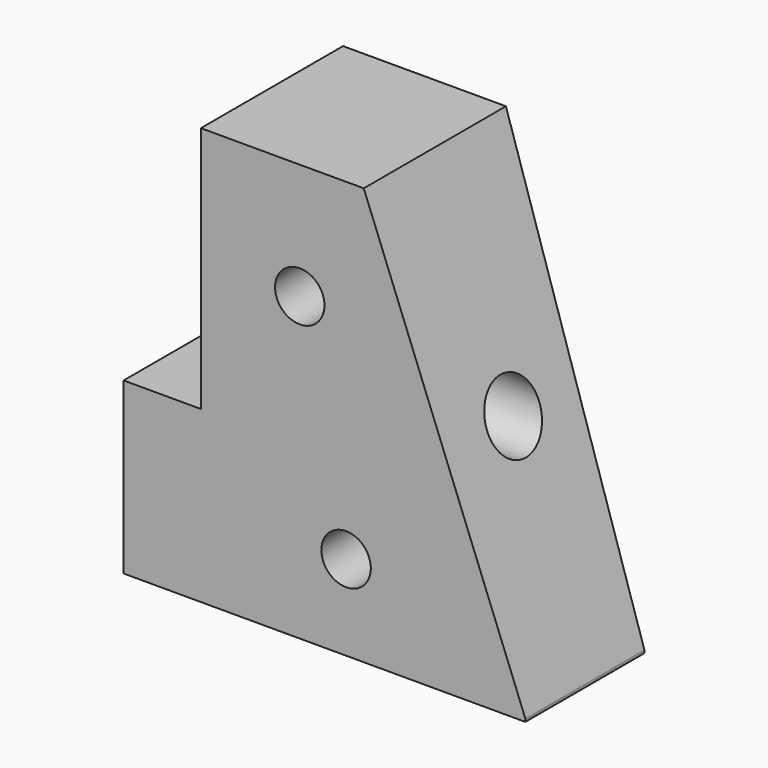
from build123d import *

# Parameters (mm, degrees)
CYLINDER181_R     = 2.1
CYLINDER181_DEPTH = 19
CYLINDER127_R     = 1.6
CYLINDER127_DEPTH = 40
CYLINDER124_R     = 1.6
CYLINDER124_DEPTH = 40
EXTRUDE067_DEPTH  = 5
EXTRUDE050_DEPTH  = 15
EXTRUDE049_DEPTH  = 21


with BuildPart() as cylinder181:
    # Cylinder181 → Cylinder181 (new body)
    with BuildSketch(Plane(origin=(15.3, 8.5, 48.5), x_dir=(0, 0, 1), z_dir=(-1, 0, 0))):
        Circle(CYLINDER181_R)
    extrude(amount=CYLINDER181_DEPTH)


with BuildPart() as cylinder127:
    # Cylinder127 → Cylinder127 (new body)
    with BuildSketch(Plane(origin=(5.3, 42, 40.5), x_dir=(0, 0, -1), z_dir=(0, -1, 0))):
        Circle(CYLINDER127_R)
    extrude(amount=CYLINDER127_DEPTH)


with BuildPart() as cylinder124:
    # Cylinder124 → Cylinder124 (new body)
    with BuildSketch(Plane(origin=(8.3, 42, 54.5), x_dir=(0, 0, -1), z_dir=(0, -1, 0))):
        Circle(CYLINDER124_R)
    extrude(amount=CYLINDER124_DEPTH)


with BuildPart() as extrude067:
    # Sketch055 → Extrude067 (new body)
    with BuildSketch(Plane.YZ):
        Polygon((3, 46), (10.5, 46), (10.5, 50), (13.646271, 50), (12.6, 35), (3, 35), align=None)
    extrude(amount=EXTRUDE067_DEPTH)


with BuildPart() as extrude067_1:
    # Extrude067 placement: moved
    add(extrude067.part.moved(Location((14.7, 0, 0))))


with BuildPart() as extrude050:
    # Sketch040 → Extrude050 (new body)
    with BuildSketch(Plane.XZ):
        Polygon((-8.16038, 62.64716), (-8.16038, 30.419451), (4.410427, 62.64716), align=None)
    extrude(amount=-EXTRUDE050_DEPTH)


with BuildPart() as extrude050_1:
    # Extrude050 placement: moved
    add(extrude050.part.moved(Location((0, 1.5, 0))))


with BuildPart() as cut276:
    # Sketch039 → Extrude049 (new body)
    with BuildSketch(Plane.YZ):
        Polygon((3, 62), (3, 35), (12.616711, 35), (14.5, 62), align=None)
    extrude(amount=EXTRUDE049_DEPTH)


with BuildPart() as cut276_1:
    # Extrude049 placement: moved
    add(cut276.part.moved(Location((-6.3, 0, 0))))

    # Cut273: cut Extrude050
    add(extrude050_1.part, mode=Mode.SUBTRACT)

    # Fusion115: union Extrude067
    add(extrude067_1.part)

    # Cut274: cut Cylinder124
    add(cylinder124.part, mode=Mode.SUBTRACT)

    # Cut275: cut Cylinder127
    add(cylinder127.part, mode=Mode.SUBTRACT)

    # Cut276: cut Cylinder181
    add(cylinder181.part, mode=Mode.SUBTRACT)


with BuildPart() as part_mirroring:
    # Part__Mirroring: instance of Cut276
    add(cut276_1.part.mirror(Plane(origin=(0, 8.75, 48.500027), x_dir=(0, -1, 0), z_dir=(1, 0, 0))))


with BuildPart() as part_mirroring_1:
    # Part__Mirroring placement: moved
    add(part_mirroring.part.moved(Location((238, 0, 0))))


solid = part_mirroring_1.part
